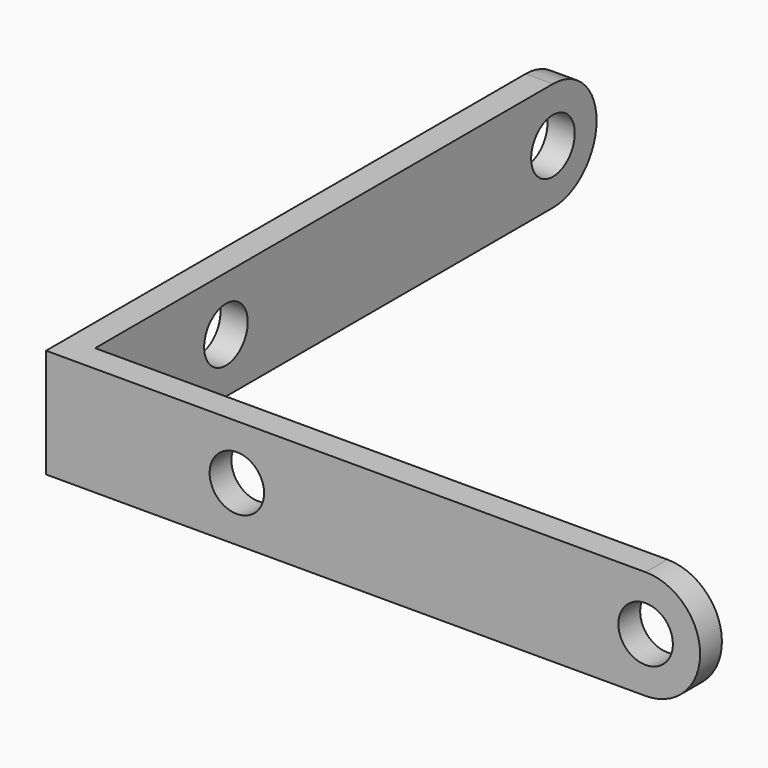
from build123d import *

# Parameters (mm, degrees)
SKETCH118_R               = 1
PAD077_DEPTH              = 1
SKETCH117_R               = 1
PAD076_DEPTH              = 1
FUSION001_PLACEMENT_ANGLE = 90


with BuildPart() as flat001:
    # Sketch118 → Pad077 (new body)
    with BuildSketch(Plane.XY):
        with BuildLine():
            Line((0, 22), (0, 0))
            Line((0, 0), (4, 0))
            Line((4, 0), (4, 22))
            ThreePointArc((4, 22), (2, 24), (0, 22))
        make_face()
        with Locations((2, 22)):
            Circle(SKETCH118_R, mode=Mode.SUBTRACT)
        with Locations((2, 7)):
            Circle(SKETCH118_R, mode=Mode.SUBTRACT)
    extrude(amount=PAD077_DEPTH)


with BuildPart() as high001:
    # Pad076 base: copy of Flat001
    add(flat001.part)

    # Sketch117 → Pad076 (new body)
    with BuildSketch(Plane.XZ.offset(-1)):
        with BuildLine():
            Line((0, 22), (0, 0))
            Line((0, 0), (4, 0))
            Line((4, 0), (4, 22))
            ThreePointArc((4, 22), (2, 24), (0, 22))
        make_face()
        with Locations((2, 22)):
            Circle(SKETCH117_R, mode=Mode.SUBTRACT)
        with Locations((2, 7)):
            Circle(SKETCH117_R, mode=Mode.SUBTRACT)
    extrude(amount=PAD076_DEPTH)


with BuildPart() as fusion001:
    # Fusion001 base: copy of Flat001
    add(flat001.part)

    # Fusion001: union High001
    add(high001.part)


with BuildPart() as fusion001_1:
    # Fusion001 placement: moved
    add(fusion001.part.moved(Location((2, 0, 116))).rotate(Axis((2, 0, 116), (0, 1, 0)), FUSION001_PLACEMENT_ANGLE))


solid = fusion001_1.part
